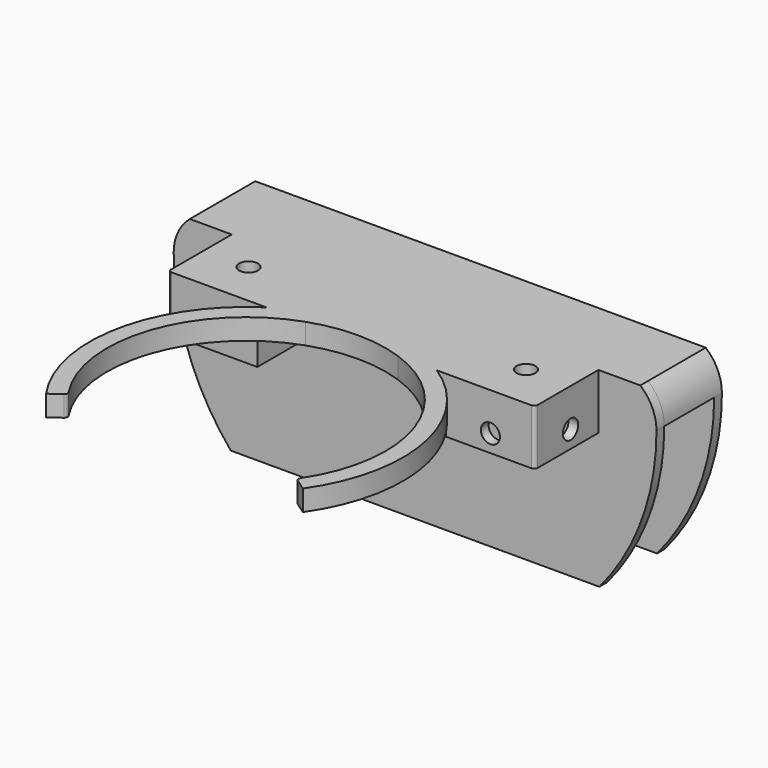
from build123d import *

# Parameters (mm, degrees)
SKETCH038_W     = 105.8
SKETCH038_H     = 25.7
SKETCH038_W_2   = 20.1
SKETCH038_H_2   = 20.1
PAD020_DEPTH    = 6
SKETCH036_R     = 45.225
SKETCH036_R_2   = 40.225
PAD019_DEPTH    = 6
POCKET020_DEPTH = 6
POCKET021_DEPTH = 6
FILLET008_R     = 1
SKETCH034_W     = 25.7
SKETCH034_H     = 25.7
SKETCH034_W_2   = 20.1
SKETCH034_H_2   = 20.1
PAD021_DEPTH    = 10
SKETCH033_R     = 2.75
POCKET024_DEPTH = 105.8
SKETCH040_R     = 2.75
POCKET023_DEPTH = 2.8
FILLET009_R     = 1
PAD022_DEPTH    = 20.8
PAD018_DEPTH    = 2.8
SKETCH041_W     = 139.326154
SKETCH041_H     = 46.5
POCKET025_DEPTH = 61
SKETCH035_W     = 139.326154
SKETCH035_H     = 18
POCKET022_DEPTH = 45
SKETCH051_W     = 20.1
SKETCH051_H     = 20.1
SKETCH051_R     = 2.75
PAD028_DEPTH    = 2.8


with BuildPart() as part:
    # Sketch038 → Pad020 (new body)
    with BuildSketch(Plane.XY):
        with Locations((52.9, 12.85)):
            Rectangle(SKETCH038_W, SKETCH038_H)
        with Locations((12.85, 12.85)):
            Rectangle(SKETCH038_W_2, SKETCH038_H_2, mode=Mode.SUBTRACT)
        with Locations((92.95, 12.85)):
            Rectangle(SKETCH038_W_2, SKETCH038_H_2, mode=Mode.SUBTRACT)
    extrude(amount=PAD020_DEPTH)

    # Sketch036 → Pad019 (join)
    with BuildSketch(Plane.XY):
        with Locations((52.9, -37.955)):
            Circle(SKETCH036_R)
        with Locations((52.9, -37.955)):
            Circle(SKETCH036_R_2, mode=Mode.SUBTRACT)
    extrude(amount=PAD019_DEPTH)

    # Pad019 Face25 → Pocket020 (cut)
    with BuildSketch(Plane(origin=(52.9, 0.910232, 6), x_dir=(0, 1, 0), z_dir=(0, 0, 1))):
        with BuildLine():
            ThreePointArc((-0.910232, -13.321734), (1.359768, 0), (-0.910232, 13.321734))
            Line((-0.910232, 13.321734), (-0.910232, -13.321734))
        make_face()
    extrude(amount=-POCKET020_DEPTH, mode=Mode.SUBTRACT)

    # Sketch039 → Pocket021 (cut)
    with BuildSketch(Plane.XY):
        with BuildLine():
            Line((52.9, -37.955), (94.041911, -66.762877))
            ThreePointArc((11.758089, -66.762877), (52.9, -88.18), (94.041911, -66.762877))
            Line((52.9, -37.955), (11.758089, -66.762877))
        make_face()
    extrude(amount=POCKET021_DEPTH, mode=Mode.SUBTRACT)

    # Fillet008
    fillet008_edges = [part.edges().sort_by_distance(p)[0] for p in [
        (19.949609, -61.027112, 3),
        (85.850391, -61.027112, 3),
    ]]
    fillet(fillet008_edges, radius=FILLET008_R)

    # Sketch034 (on Face11 of Fillet008) → Pad021 (join)
    with BuildSketch(Plane(origin=(0, 0, 0), x_dir=(1, 0, 0), z_dir=(0, 0, -1))):
        with Locations((12.85, -12.85)):
            Rectangle(SKETCH034_W, SKETCH034_H)
        with Locations((12.85, -12.85)):
            Rectangle(SKETCH034_W_2, SKETCH034_H_2, mode=Mode.SUBTRACT)
        with Locations((92.95, -12.85)):
            Rectangle(SKETCH034_W, SKETCH034_H)
        with Locations((92.95, -12.85)):
            Rectangle(SKETCH034_W_2, SKETCH034_H_2, mode=Mode.SUBTRACT)
    extrude(amount=PAD021_DEPTH)

    # Sketch033 (on Face27 of Pad021) → Pocket024 (cut)
    with BuildSketch(Plane(origin=(0, 0, 0), x_dir=(0, -1, 0), z_dir=(-1, 0, 0))):
        with Locations((-12.85, -5)):
            Circle(SKETCH033_R)
    extrude(amount=-POCKET024_DEPTH, mode=Mode.SUBTRACT)

    # Sketch040 (on Face13 of Pocket024) → Pocket023 (cut)
    with BuildSketch(Plane.XZ):
        with Locations((12.85, -5)):
            Circle(SKETCH040_R)
        with Locations((92.95, -5)):
            Circle(SKETCH040_R)
    extrude(amount=-POCKET023_DEPTH, mode=Mode.SUBTRACT)

    # Fillet009
    fillet009_edges = [part.edges().sort_by_distance(p)[0] for p in [
        (103, 12.85, -10),
        (92.95, 2.8, -10),
        (82.9, 12.85, -10),
        (22.9, 12.85, -10),
        (12.85, 2.8, -10),
        (2.8, 12.85, -10),
        (0, 0, -5),
        (0, 0, 3),
        (105.8, 0, -5),
        (105.8, 0, 3),
    ]]
    fillet(fillet009_edges, radius=FILLET009_R)

    # Sketch037 (on Face12 of Fillet009) → Pad022 (join)
    with BuildSketch(Plane(origin=(0, 25.7, 0), x_dir=(-1, 0, 0), z_dir=(0, 1, 0))):
        with BuildLine():
            Line((12.1, 6), (-117.9, 6))
            ThreePointArc((-117.9, 6), (-121.340012, 1.51689), (-122.563077, -4))
            ThreePointArc((-122.563077, -4), (-52.9, -73.663077), (16.763077, -4))
            ThreePointArc((16.763077, -4), (15.540012, 1.51689), (12.1, 6))
        make_face()
    extrude(amount=PAD022_DEPTH)

    # Pad022 Face4 → Pad018 (add)
    with BuildSketch(Plane(origin=(52.9, 25.7, -32.391454), x_dir=(-1, 0, 0), z_dir=(0, -1, 0))):
        with BuildLine():
            ThreePointArc((65, -38.391454), (68.440012, -33.908343), (69.663077, -28.391454))
            ThreePointArc((69.663077, -28.391454), (0, 41.271623), (-69.663077, -28.391454))
            ThreePointArc((-69.663077, -28.391454), (-68.440012, -33.908343), (-65, -38.391454))
            Line((-65, -38.391454), (-52.9, -38.391454))
            Line((-52.9, -38.391454), (-52.9, -32.391454))
            Line((-52.9, -32.391454), (-52.9, -22.391454))
            Line((-52.9, -22.391454), (-27.2, -22.391454))
            Line((-27.2, -22.391454), (-27.2, -32.391454))
            Line((-27.2, -32.391454), (27.2, -32.391454))
            Line((27.2, -32.391454), (27.2, -22.391454))
            Line((27.2, -22.391454), (52.9, -22.391454))
            Line((52.9, -22.391454), (52.9, -32.391454))
            Line((52.9, -32.391454), (52.9, -38.391454))
            Line((52.9, -38.391454), (65, -38.391454))
        make_face()
    extrude(amount=PAD018_DEPTH)

    # Sketch041 → Pocket025 (cut)
    with BuildSketch(Plane.XY.offset(-49)):
        with Locations((52.9, 23.25)):
            Rectangle(SKETCH041_W, SKETCH041_H)
    extrude(amount=-POCKET025_DEPTH, mode=Mode.SUBTRACT)

    # Sketch035 (on Face28 of Pocket025) → Pocket022 (cut)
    with BuildSketch(Plane(origin=(0, 0, -49), x_dir=(1, 0, 0), z_dir=(0, 0, -1))):
        with Locations((52.9, -34.7)):
            Rectangle(SKETCH035_W, SKETCH035_H)
    extrude(amount=-POCKET022_DEPTH, mode=Mode.SUBTRACT)

    # Sketch051 (on Face5 of Pocket022) → Pad028 (join)
    with BuildSketch(Plane.XY.offset(6)):
        with Locations((12.85, 12.85)):
            Rectangle(SKETCH051_W, SKETCH051_H)
        with Locations((12.85, 12.85)):
            Circle(SKETCH051_R, mode=Mode.SUBTRACT)
        with Locations((92.95, 12.85)):
            Rectangle(SKETCH051_W, SKETCH051_H)
        with Locations((92.95, 12.85)):
            Circle(SKETCH051_R, mode=Mode.SUBTRACT)
    extrude(amount=-PAD028_DEPTH)


with BuildPart() as part_1:
    # Body006 placement: moved
    add(part.part.moved(Location((1000, 0, 40))))


solid = part_1.part
